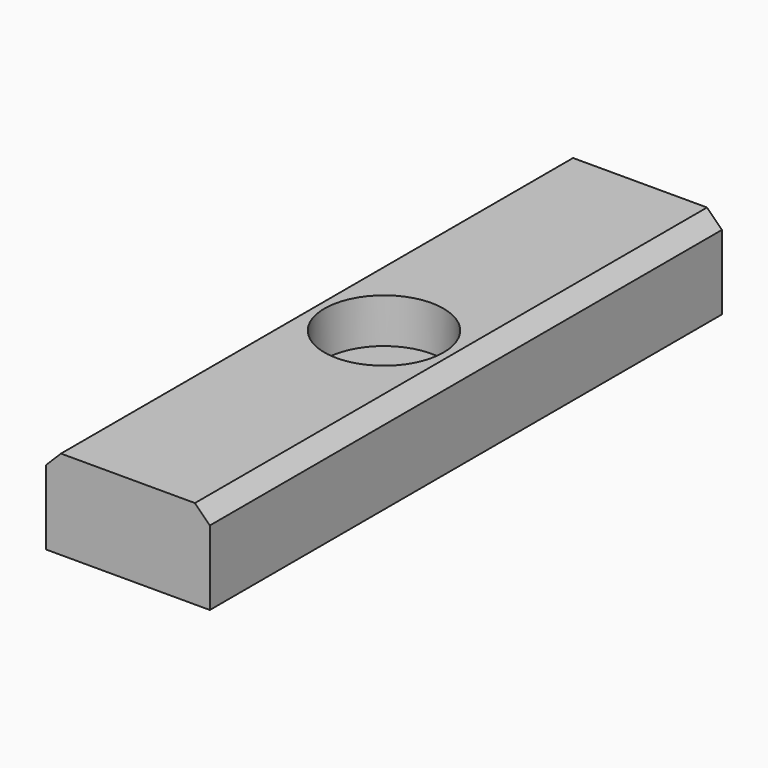
from build123d import *

# Parameters (mm, degrees)
F0_W     = 34.925
F0_H     = 19.05
F1_DEPTH = 136.525
F2_SIZE  = 3.175
F3_R     = 12.7
F4_DEPTH = 9.525
F5_R     = 3.96875
F6_DEPTH = 254


with BuildPart() as f1:
    # F0 (on Front) → F1 (new body)
    with BuildSketch(Plane.XZ):
        with Locations((17.4625, -9.525)):
            Rectangle(F0_W, F0_H)
    extrude(amount=F1_DEPTH)

    # F2
    f2_edges = [f1.edges().sort_by_distance(p)[0] for p in [
        (34.925, -68.2625, 0),
        (0, -68.2625, 0),
    ]]
    chamfer(f2_edges, length=F2_SIZE)

    # F3 (on face) → F4 (cut)
    with BuildSketch(Plane.XY):
        with Locations((17.4625, -68.2625)):
            Circle(F3_R)
    extrude(amount=-F4_DEPTH, mode=Mode.SUBTRACT)

    # F5 (on face) → F6 (cut)
    with BuildSketch(Plane.XY.offset(-9.525)):
        with Locations((17.4625, -68.2625)):
            Circle(F5_R)
    extrude(amount=-F6_DEPTH, mode=Mode.SUBTRACT)


solid = f1.part
